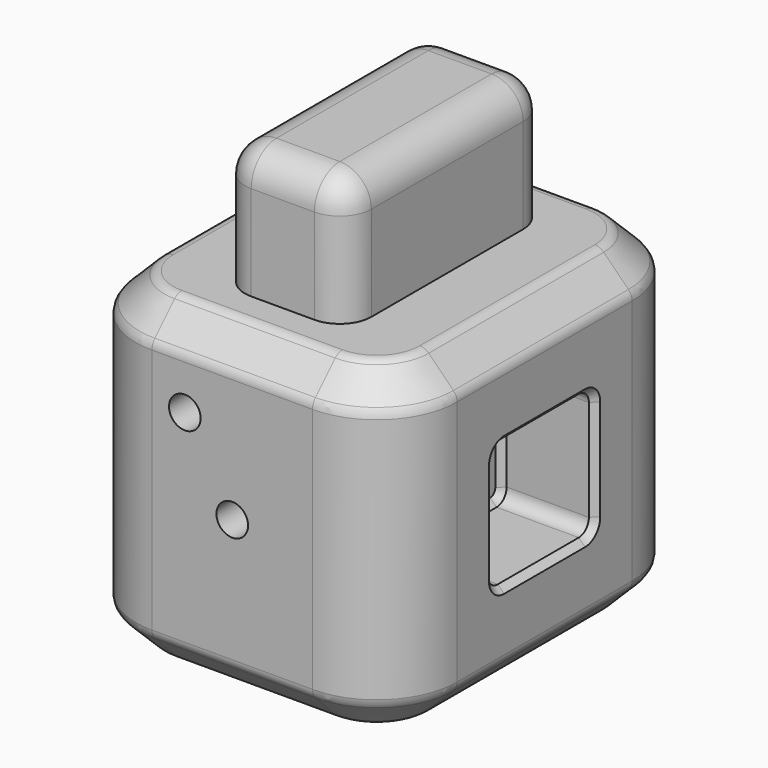
from build123d import *

# Parameters (mm, degrees)
F0_W      = 50.8
F0_H      = 50.8
F1_DEPTH  = 30
F2_R      = 12.7
F3_SIZE   = 5.08
F5_DEPTH  = 20
F6_R      = 5
F7_R      = 2
F8_W      = 20
F8_H      = 20
F9_DEPTH  = 15
F10_R     = 2
F11_SIZE  = 1
F13_D     = 5
F13_DEPTH = 10
F13_TIP   = 1.5021515476
F15_D     = 5
F15_DEPTH = 10
F15_TIP   = 1.5021515476


with BuildPart() as f1:
    # F0 (on Front) → F1 (new body, symmetric)
    with BuildSketch(Plane.XZ):
        Rectangle(F0_W, F0_H)
    extrude(amount=F1_DEPTH, both=True)

    # F2
    f2_edges = [f1.edges().sort_by_distance(p)[0] for p in [
        (25.4, -30, 0),
        (-25.4, -30, 0),
        (25.4, 30, 0),
        (-25.4, 30, 0),
    ]]
    fillet(f2_edges, radius=F2_R)

    # F3
    f3_edges = [f1.edges().sort_by_distance(p)[0] for p in [
        (0, -30, 25.4),
        (0, -30, -25.4),
    ]]
    chamfer(f3_edges, length=F3_SIZE)

    # F4 (on face) → F5 (join)
    with BuildSketch(Plane.XY.offset(25.4)):
        with BuildLine():
            ThreePointArc((-10, -15), (-8.5355339059, -18.5355339059), (-5, -20))
            Line((-5, -20), (5, -20))
            ThreePointArc((5, -20), (8.5355339059, -18.5355339059), (10, -15))
            Line((10, -15), (10, 15))
            ThreePointArc((10, 15), (8.5355339059, 18.5355339059), (5, 20))
            Line((5, 20), (-5, 20))
            ThreePointArc((-5, 20), (-8.5355339059, 18.5355339059), (-10, 15))
            Line((-10, 15), (-10, -15))
        make_face()
    extrude(amount=F5_DEPTH)

    # F6
    f6_edges = [f1.edges().sort_by_distance(p)[0] for p in [
        (10, 0, 45.4),
    ]]
    fillet(f6_edges, radius=F6_R)

    # F7
    f7_edges = [f1.edges().sort_by_distance(p)[0] for p in [
        (20.32, 0, 25.4),
        (25.4, 0, 20.32),
        (25.4, 0, -20.32),
        (20.32, 0, -25.4),
    ]]
    fillet(f7_edges, radius=F7_R)

    # F8 (on face) → F9 (cut)
    with BuildSketch(Plane.YZ.offset(25.4)):
        Rectangle(F8_W, F8_H)
    extrude(amount=-F9_DEPTH, mode=Mode.SUBTRACT)

    # F10
    f10_edges = [f1.edges().sort_by_distance(p)[0] for p in [
        (17.9, 10, 10),
        (17.9, -10, 10),
        (17.9, -10, -10),
        (17.9, 10, -10),
    ]]
    fillet(f10_edges, radius=F10_R)

    # F11
    f11_edges = [f1.edges().sort_by_distance(p)[0] for p in [
        (10.4, 0, 10),
        (25.4, 0, 10),
    ]]
    chamfer(f11_edges, length=F11_SIZE)

    # F13
    with Locations(Plane.XZ.offset(30)):
        with Locations((0, 0)):
            Hole(F13_D / 2, depth=F13_DEPTH)
            with Locations((0, 0, -(F13_DEPTH + F13_TIP / 2))):  # 118° drill point
                Cone(0, F13_D / 2, F13_TIP, mode=Mode.SUBTRACT)

    # F15
    with Locations(Plane.XZ.offset(30)):
        with Locations((-7.5, 12.5)):
            Hole(F15_D / 2, depth=F15_DEPTH)
            with Locations((0, 0, -(F15_DEPTH + F15_TIP / 2))):  # 118° drill point
                Cone(0, F15_D / 2, F15_TIP, mode=Mode.SUBTRACT)


solid = f1.part
